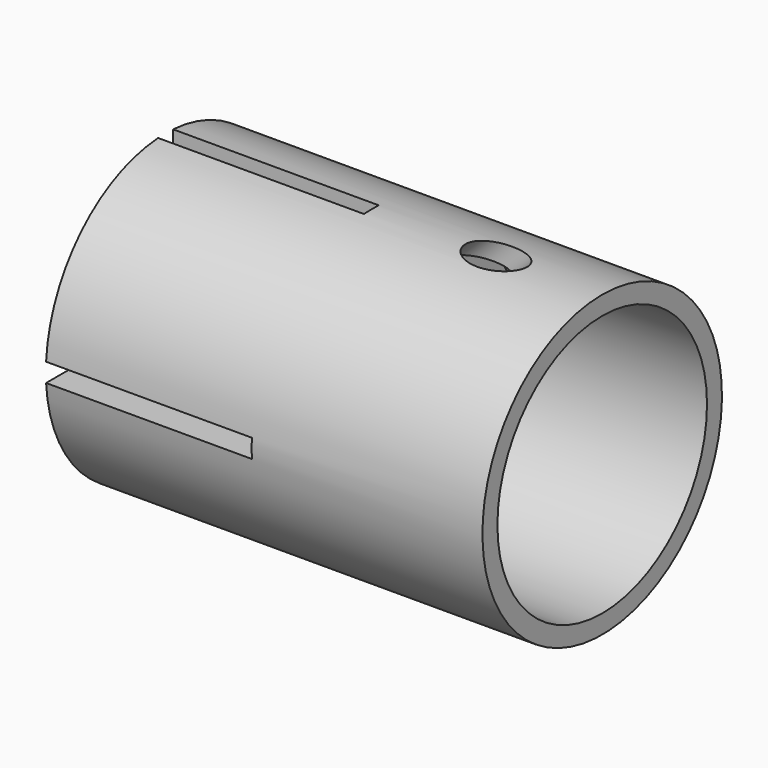
from build123d import *

# Parameters (mm, degrees)
F2_W     = 36.676987372
F2_H     = 3.81
F2_W_2   = 3.81
F2_H_2   = 32.5926636749
F2_W_3   = 35.713012628
F2_H_3   = 39.7973363251
F3_DEPTH = 41.91
F6_R     = 4.445
F7_DEPTH = 76.708


with BuildPart() as f1:
    # F0 (on Front) → F1 (revolve)
    with BuildSketch(Plane.XZ):
        Polygon((-47.0309668349, 30.48), (-47.0309668349, 0), (3.7690331651, 0), (3.7690331651, 26.67), (41.8690331651, 26.67), (41.8690331651, 30.48), align=None)
    revolve(axis=Axis((6.2270945557, 0, 0), (1, 0, 0)))

    # F2 (on face) → F3 (cut)
    with BuildSketch(Plane(origin=(-47.0309668349, 0, 0), x_dir=(0, -1, 0), z_dir=(-1, 0, 0))):
        with Locations((-20.243493686, 0)):
            Rectangle(F2_W, F2_H)
        with Locations((0, 18.2013318375)):
            Rectangle(F2_W_2, F2_H_2)
        Rectangle(F2_W_2, F2_H)
        with Locations((19.761506314, 0)):
            Rectangle(F2_W_3, F2_H)
        with Locations((0, -21.8036681625)):
            Rectangle(F2_W_2, F2_H_3)
    extrude(amount=-F3_DEPTH, mode=Mode.SUBTRACT)

    # F6 (on line) → F7 (cut)
    with BuildSketch(Plane(origin=(66.1142536219, 0, 66.1142536219), x_dir=(0, -1, 0), z_dir=(-0.7071067812, 0, -0.7071067812))):
        with Locations((0, 7.1842048969)):
            Circle(F6_R)
    extrude(amount=F7_DEPTH, mode=Mode.SUBTRACT)


solid = f1.part
